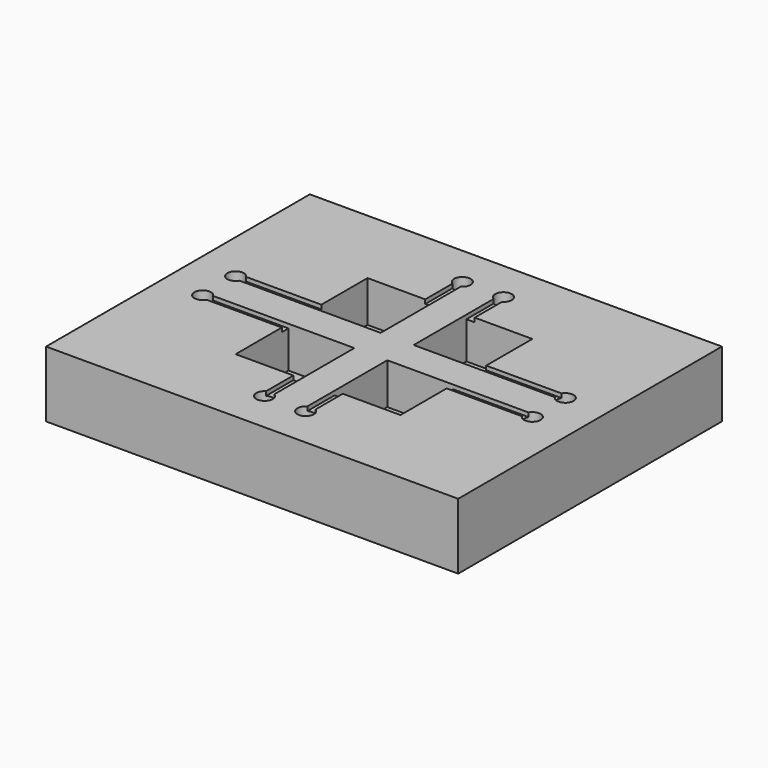
from build123d import *

# Parameters (mm, degrees)
F0_W     = 8
F0_H     = 8
F1_DEPTH = 5
F2_W     = 50
F2_H     = 40
F3_DEPTH = 3
F4_W     = 1
F4_H     = 5
F4_W_2   = 10
F4_H_2   = 1
F5_DEPTH = 0.5
F6_R     = 1
F7_DEPTH = 5


with BuildPart() as f1:
    # F0 (on Top) → F1 (new body)
    with BuildSketch(Plane.XY):
        Polygon((-25, -20), (25, -20), (25, 20), (-10, 20), (-25, 20), align=None)
        with Locations((-6, -6)):
            Rectangle(F0_W, F0_H, mode=Mode.SUBTRACT)
        with Locations((6, -6)):
            Rectangle(F0_W, F0_H, mode=Mode.SUBTRACT)
        with Locations((-6, 6)):
            Rectangle(F0_W, F0_H, mode=Mode.SUBTRACT)
        with Locations((6, 6)):
            Rectangle(F0_W, F0_H, mode=Mode.SUBTRACT)
    extrude(amount=F1_DEPTH)

    # F2 (on face) → F3 (join)
    with BuildSketch(Plane(origin=(0, 0, 0), x_dir=(1, 0, 0), z_dir=(0, 0, -1))):
        Rectangle(F2_W, F2_H)
    extrude(amount=F3_DEPTH)

    # F4 (on face) → F5 (cut)
    with BuildSketch(Plane.XY.offset(5)):
        with Locations((2.5, -12.5)):
            Rectangle(F4_W, F4_H)
        with Locations((-2.5, -12.5)):
            Rectangle(F4_W, F4_H)
        with Locations((-2.5, 12.5)):
            Rectangle(F4_W, F4_H)
        with Locations((2.5, 12.5)):
            Rectangle(F4_W, F4_H)
        with Locations((15, -2.5)):
            Rectangle(F4_W_2, F4_H_2)
        with Locations((15, 2.5)):
            Rectangle(F4_W_2, F4_H_2)
        with Locations((-15, 2.5)):
            Rectangle(F4_W_2, F4_H_2)
        with Locations((-15, -2.5)):
            Rectangle(F4_W_2, F4_H_2)
    extrude(amount=-F5_DEPTH, mode=Mode.SUBTRACT)

    # F6 (on face) → F7 (cut)
    with BuildSketch(Plane.XY.offset(5)):
        with Locations((20, -2.5)):
            Circle(F6_R)
        with Locations((20, 2.5)):
            Circle(F6_R)
        with Locations((-20, -2.5)):
            Circle(F6_R)
        with Locations((-20, 2.5)):
            Circle(F6_R)
        with Locations((2.5, -15)):
            Circle(F6_R)
        with Locations((-2.5, -15)):
            Circle(F6_R)
        with Locations((2.5, 15)):
            Circle(F6_R)
        with Locations((-2.5, 15)):
            Circle(F6_R)
    extrude(amount=-F7_DEPTH, mode=Mode.SUBTRACT)


solid = f1.part
